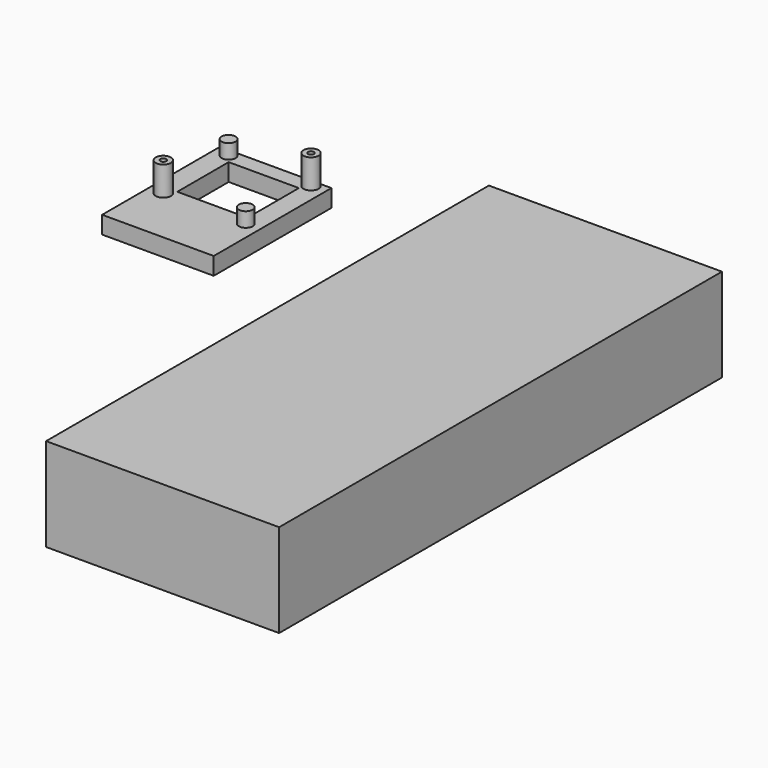
from build123d import *

# Parameters (mm, degrees)
F0_R           = 1.3
F1_DEPTH       = 5
F2_R           = 0.5
F3_DEPTH       = 5
F4_W           = 19.15
F4_H           = 25.25
F4_W_2         = 12.05398
F4_H_2         = 11.024051
F5_DEPTH       = 3
F6_DEPTH       = 3
F7_R           = 1.2
F8_DEPTH       = 2.5
F9_W           = 95
F9_H           = 16
F10_DEPTH      = 20
F10_DEPTH_BACK = 20


with BuildPart() as f1:
    # F0 (on Top) → F1 (new body)
    with BuildSketch(Plane.XY):
        with Locations((7.075, 7)):
            Circle(F0_R)
        with Locations((-7.075, -7)):
            Circle(F0_R)
    extrude(amount=F1_DEPTH)

    # F2 (on Top) → F3 (cut)
    with BuildSketch(Plane.XY):
        with Locations((-7.075, -7)):
            Circle(F2_R)
        with Locations((7.075, 7)):
            Circle(F2_R)
    extrude(amount=F3_DEPTH, mode=Mode.SUBTRACT)


with BuildPart() as f5:
    # F4 (on Top) → F5 (new body)
    with BuildSketch(Plane.XY):
        with Locations((0, -4.375)):
            Rectangle(F4_W, F4_H)
        with Locations((0.14762, 0.012107)):
            Rectangle(F4_W_2, F4_H_2, mode=Mode.SUBTRACT)
    extrude(amount=-F5_DEPTH)

    # F7 (on Top) → F8 (join)
    with BuildSketch(Plane.XY):
        with Locations((-7.075, 7)):
            Circle(F7_R)
        with Locations((7.075, -7)):
            Circle(F7_R)
    extrude(amount=F8_DEPTH)


with BuildPart() as f6:
    # F0 (on Top) → F6 (new body)
    with BuildSketch(Plane.XY):
        with Locations((7.075, 7)):
            Circle(F0_R)
        with Locations((-7.075, -7)):
            Circle(F0_R)
    extrude(amount=-F6_DEPTH)


with BuildPart() as f10:
    # F9 (on Right) → F10 (new body, two sides)
    with BuildSketch(Plane.YZ) as f10_sk:
        with Locations((31.5, -46)):
            Rectangle(F9_W, F9_H)
    extrude(amount=F10_DEPTH)
    extrude(f10_sk.sketch, amount=-F10_DEPTH_BACK)


solid = Compound([f1.part, f5.part, f6.part, f10.part])
